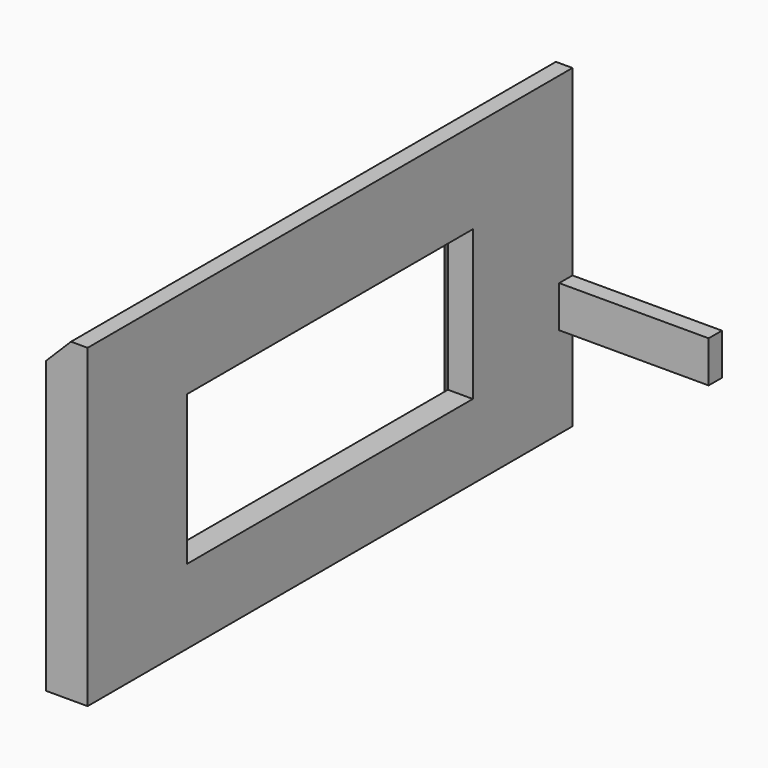
from build123d import *

# Parameters (mm, degrees)
BOX030_W        = 20
BOX030_H        = 2
BOX030_DEPTH    = 5
BOX029_W        = 7
BOX029_H        = 43
BOX029_DEPTH    = 18
BOX028_W        = 5
BOX028_H        = 73
BOX028_DEPTH    = 38
CHAMFER009_SIZE = 3
CHAMFER010_SIZE = 2


with BuildPart() as cube005:
    # Box030 → Box030 (new body)
    with BuildSketch(Plane(origin=(20, -4, 16), x_dir=(1, 0, 0), z_dir=(0, 0, 1))):
        with Locations((10, 1)):
            Rectangle(BOX030_W, BOX030_H)
    extrude(amount=BOX030_DEPTH)


with BuildPart() as obj1:
    # Box029 → Box029 (new body)
    with BuildSketch(Plane(origin=(16, -60, 14), x_dir=(1, 0, 0), z_dir=(0, 0, 1))):
        with Locations((3.5, 21.5)):
            Rectangle(BOX029_W, BOX029_H)
    extrude(amount=BOX029_DEPTH)


with BuildPart() as obj2:
    # Box028 → Box028 (new body)
    with BuildSketch(Plane(origin=(17, -75, 5), x_dir=(1, 0, 0), z_dir=(0, 0, 1))):
        with Locations((2.5, 36.5)):
            Rectangle(BOX028_W, BOX028_H)
    extrude(amount=BOX028_DEPTH)

    # Cut043: cut obj1
    add(obj1.part, mode=Mode.SUBTRACT)

    # Chamfer009
    chamfer009_edges = [obj2.edges().sort_by_distance(p)[0] for p in [
        (17, -38.5, 43),
        (17, -2, 24),
    ]]
    chamfer(chamfer009_edges, length=CHAMFER009_SIZE)

    # Chamfer010
    chamfer010_edges = [obj2.edges().sort_by_distance(p)[0] for p in [
        (17, -38.5, 14),
        (17, -17, 23),
        (17, -38.5, 32),
        (17, -60, 23),
    ]]
    chamfer(chamfer010_edges, length=CHAMFER010_SIZE)

    # Fusion001064: union Cube005
    add(cube005.part)


with BuildPart() as obj2_1:
    # Fusion001064 placement: moved
    add(obj2.part.moved(Location((7, 2, -2))))


solid = obj2_1.part
